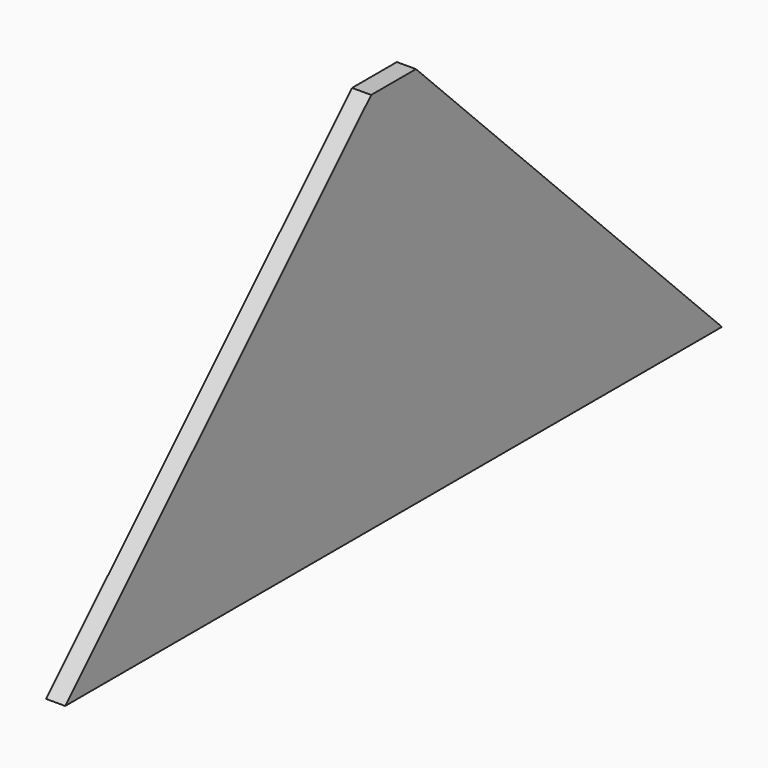
from build123d import *

# Parameters (mm, degrees)
F1_DEPTH = 1.27


with BuildPart() as f1:
    # F0 (on Right) → F1 (new body, symmetric)
    with BuildSketch(Plane.YZ):
        Polygon((17.037729, 30.358672), (-29.272143, -15.9512), (25.2476, -15.9512), (25.2476, 34.8488), (21.527857, 34.8488), align=None)
        Polygon((25.2476, 34.8488), (25.2476, -15.9512), (79.767344, -15.9512), (33.457472, 30.358672), (28.967344, 34.8488), align=None)
    extrude(amount=F1_DEPTH, both=True)


solid = f1.part
